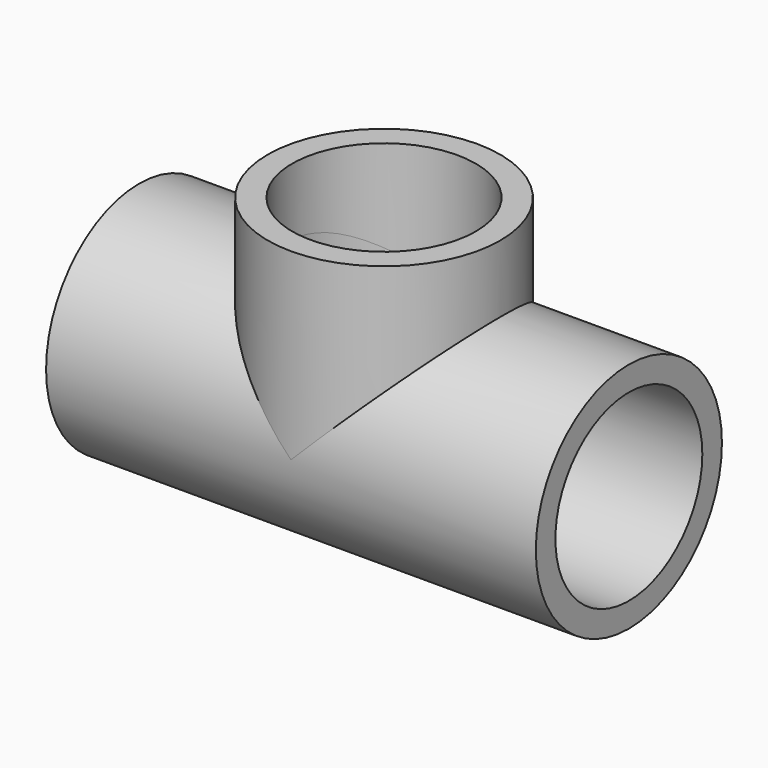
from build123d import *

# Parameters (mm, degrees)
F0_R     = 9.5
F0_R_2   = 7.5
F1_DEPTH = 40
F2_R     = 9.5
F2_R_2   = 7.5
F3_DEPTH = 15
F4_R     = 7.5
F5_DEPTH = 50
F6_R     = 7.5
F7_DEPTH = 15


with BuildPart() as f1:
    # F0 (on Right) → F1 (new body)
    with BuildSketch(Plane.YZ):
        Circle(F0_R)
        Circle(F0_R_2, mode=Mode.SUBTRACT)
    extrude(amount=F1_DEPTH)

    # F2 (on Top) → F3 (join)
    with BuildSketch(Plane.XY):
        with Locations((20, 0)):
            Circle(F2_R)
        with Locations((20, 0)):
            Circle(F2_R_2, mode=Mode.SUBTRACT)
    extrude(amount=F3_DEPTH)

    # F4 (on face) → F5 (cut)
    with BuildSketch(Plane.YZ.offset(40)):
        Circle(F4_R)
    extrude(amount=-F5_DEPTH, mode=Mode.SUBTRACT)

    # F6 (on face) → F7 (cut)
    with BuildSketch(Plane.XY.offset(15)):
        with Locations((20, 0)):
            Circle(F6_R)
    extrude(amount=-F7_DEPTH, mode=Mode.SUBTRACT)


solid = f1.part
